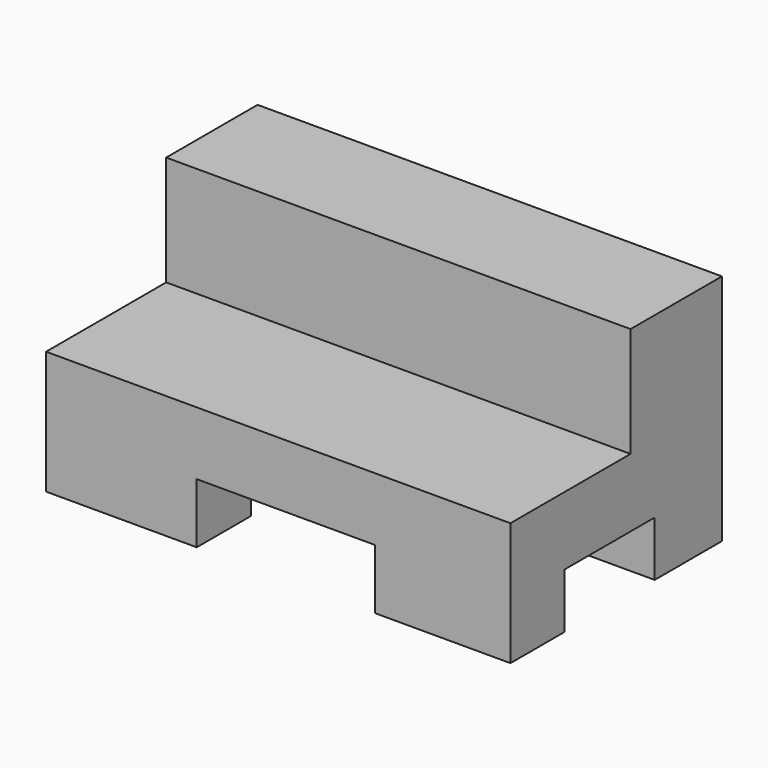
from build123d import *

# Parameters (mm, degrees)
F0_W      = 139.4520141184
F0_H      = 104.3851450086
F1_DEPTH  = 10
F2_W      = 139.4520141184
F2_H      = 34.2989321798
F3_DEPTH  = 50
F4_DEPTH  = 27
F5_DEPTH  = 10
F6_DEPTH  = 25
F7_W      = 53.5153914243
F7_H      = 18.0249847472
F8_DEPTH  = 81
F9_W      = 33.8615532964
F9_H      = 16.5060851723
F10_DEPTH = 258


with BuildPart() as f1:
    # F0 (on Top) → F1 (new body)
    with BuildSketch(Plane.XY):
        with Locations((-1.7260108143, -2.0494647324)):
            Rectangle(F0_W, F0_H)
    extrude(amount=F1_DEPTH)

    # F2 (on face) → F3 (join)
    with BuildSketch(Plane.XY.offset(10)):
        with Locations((-1.7260108143, 32.993641682)):
            Rectangle(F2_W, F2_H)
    extrude(amount=F3_DEPTH)

    # F4 (add): a face of the model
    f4_faces = [f1.faces().sort_by_distance(p)[0] for p in [
        (-1.7260108143, -19.1989308223, 10),
    ]]
    extrude(f4_faces, amount=F4_DEPTH)

    # F5 (add): a face of the model
    f5_faces = [f1.faces().sort_by_distance(p)[0] for p in [
        (-1.7260108143, 32.993641682, 60),
    ]]
    extrude(f5_faces, amount=F5_DEPTH)

    # F6 (cut): a face of the model
    f6_faces = [f1.faces().sort_by_distance(p)[0] for p in [
        (-1.7260108143, -54.2420372367, 18.5),
    ]]
    extrude(f6_faces, amount=-F6_DEPTH, mode=Mode.SUBTRACT)

    # F7 (on face) → F8 (cut)
    with BuildSketch(Plane.XZ.offset(29.2420372367)):
        with Locations((0.5511036143, 9.0124923736)):
            Rectangle(F7_W, F7_H)
    extrude(amount=-F8_DEPTH, mode=Mode.SUBTRACT)

    # F9 (on face) → F10 (cut)
    with BuildSketch(Plane(origin=(-71.4520178735, 0, 0), x_dir=(0, -1, 0), z_dir=(-1, 0, 0))):
        with Locations((-7.9709040001, 8.2530425861)):
            Rectangle(F9_W, F9_H)
    extrude(amount=-F10_DEPTH, mode=Mode.SUBTRACT)


solid = f1.part
